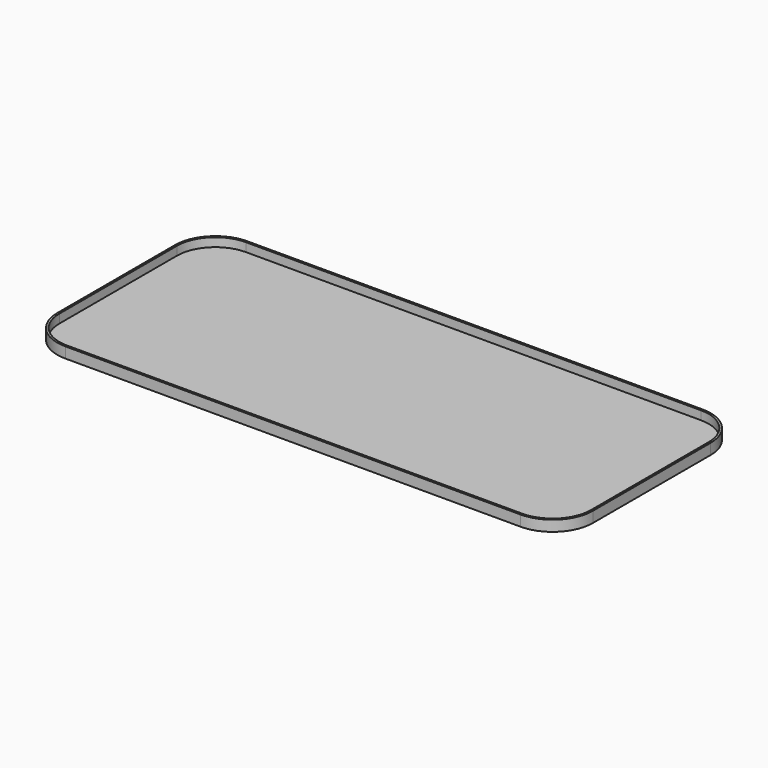
from build123d import *

# Parameters (mm, degrees)
F0_W     = 200
F0_H     = 85
F1_DEPTH = 4
F2_R     = 15
F3_T     = -0.75


with BuildPart() as f1:
    # F0 (on Top) → F1 (new body)
    with BuildSketch(Plane.XY):
        with Locations((100, 42.5)):
            Rectangle(F0_W, F0_H)
    extrude(amount=-F1_DEPTH)

    # F2
    f2_edges = [f1.edges().sort_by_distance(p)[0] for p in [
        (0, 0, -2),
        (200, 0, -2),
        (200, 85, -2),
        (0, 85, -2),
    ]]
    fillet(f2_edges, radius=F2_R)

    # F3
    f3_openings = [f1.faces().sort_by_distance(p)[0] for p in [
        (100, 42.5, 0),
    ]]
    offset(amount=F3_T, openings=f3_openings)


solid = f1.part
